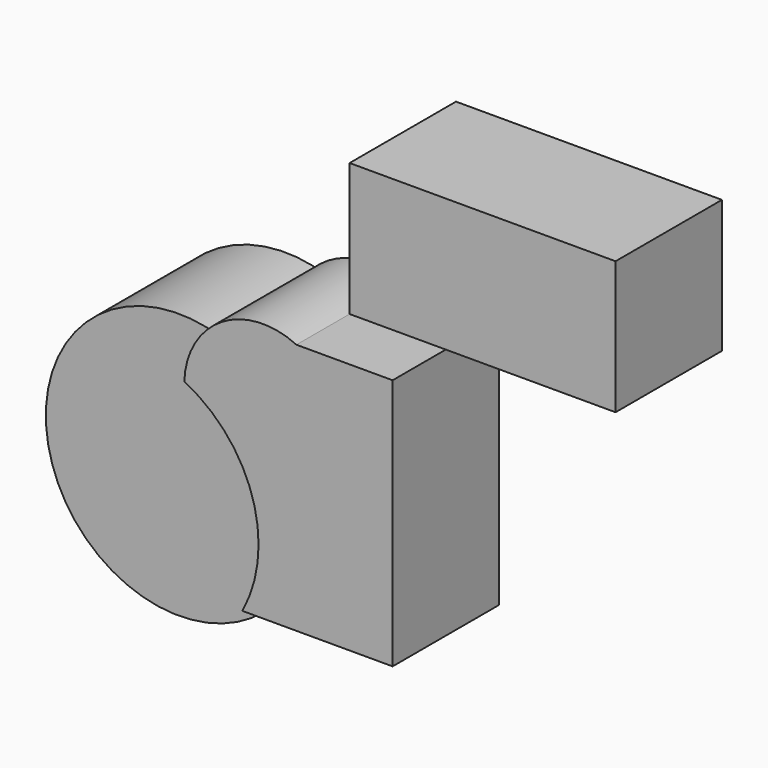
from build123d import *

# Parameters (mm, degrees)
F1_DEPTH = 12.7
F2_DEPTH = 25.4


with BuildPart() as f1:
    # F0 (on Front) → F1 (new body, symmetric)
    with BuildSketch(Plane.XZ):
        with BuildLine():
            ThreePointArc((22.296051, -12.167419), (24.611783, -6.278547), (25.4, 0))
            ThreePointArc((25.4, 0), (21.564414, 13.421477), (11.21606, 22.789471))
            ThreePointArc((11.21606, 22.789471), (-24.212837, -7.674539), (22.296051, -12.167419))
        make_face()
        Polygon((32.630809, 61.349193), (32.630809, 35.949193), (51.004838, 35.949193), (83.430809, 35.949193), (83.430809, 61.349193), align=None)
    extrude(amount=F1_DEPTH, both=True)


with BuildPart() as f2:
    # F0 (on Front) → F2 (new body)
    with BuildSketch(Plane.XZ):
        with BuildLine():
            ThreePointArc((11.21606, 22.789471), (21.564414, 13.421477), (25.4, 0))
            ThreePointArc((25.4, 0), (24.611783, -6.278547), (22.296051, -12.167419))
            Line((22.296051, -12.167419), (51.004838, -12.167419))
            Line((51.004838, -12.167419), (51.004838, 35.949193))
            Line((51.004838, 35.949193), (32.630809, 35.949193))
            ThreePointArc((32.630809, 35.949193), (18.368267, 35.154638), (11.21606, 22.789471))
        make_face()
    extrude(amount=F2_DEPTH)


solid = Compound([f1.part, f2.part])
